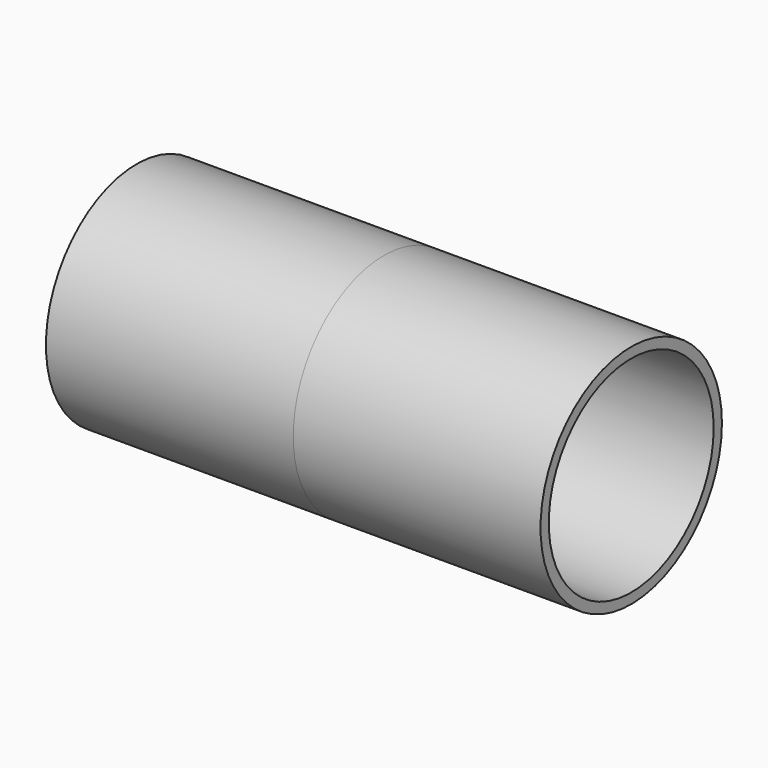
from build123d import *

# Parameters (mm, degrees)
F0_R     = 17.4625
F0_R_2   = 15.875
F1_DEPTH = 38.1
F2_R     = 17.4625
F2_R_2   = 15.875
F3_DEPTH = 38.1


with BuildPart() as f1:
    # F0 (on Right) → F1 (new body)
    with BuildSketch(Plane.YZ):
        Circle(F0_R)
        Circle(F0_R_2, mode=Mode.SUBTRACT)
    extrude(amount=F1_DEPTH)


with BuildPart() as f3:
    # F2 (on face) → F3 (new body)
    with BuildSketch(Plane.YZ.offset(38.1)):
        Circle(F2_R)
        Circle(F2_R_2, mode=Mode.SUBTRACT)
    extrude(amount=F3_DEPTH)


solid = Compound([f1.part, f3.part])
